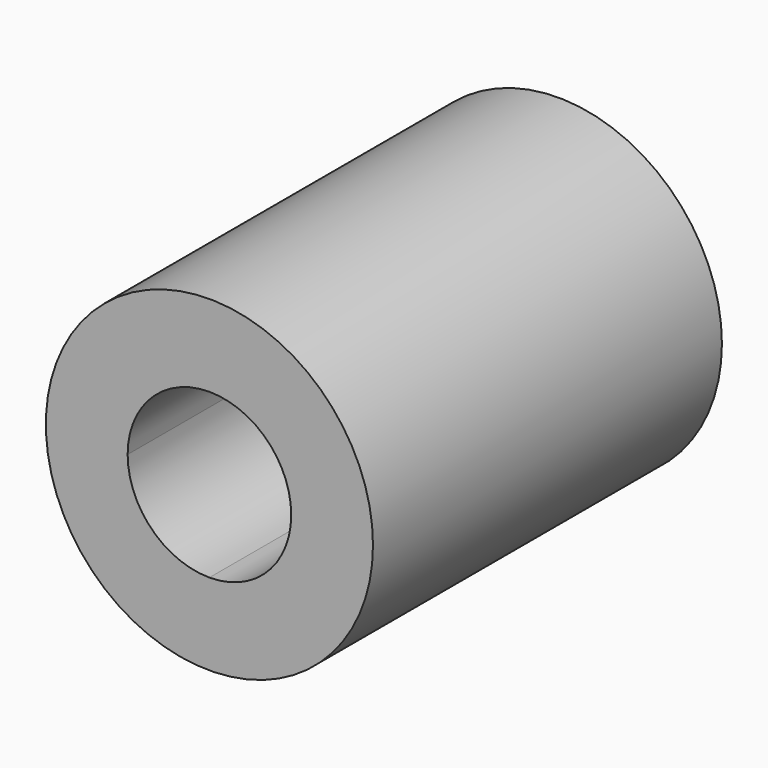
from build123d import *

# Parameters (mm, degrees)
F0_R     = 9.525
F1_DEPTH = 25.4
F3_DEPTH = 25.401


with BuildPart() as f1:
    # F0 (on Front) → F1 (new body)
    with BuildSketch(Plane.XZ):
        Circle(F0_R)
    extrude(amount=F1_DEPTH)

    # F2 (on Front) → F3 (cut, through all)
    with BuildSketch(Plane.XZ):
        with BuildLine():
            ThreePointArc((4.7625, 0), (3.367596, 3.367596), (0, 4.7625))
            ThreePointArc((0, 4.7625), (-3.367596, 3.367596), (-4.7625, 0))
            ThreePointArc((-4.7625, 0), (-3.367596, -3.367596), (0, -4.7625))
            ThreePointArc((0, -4.7625), (3.367596, -3.367596), (4.7625, 0))
        make_face()
    extrude(amount=F3_DEPTH, mode=Mode.SUBTRACT)


solid = f1.part
